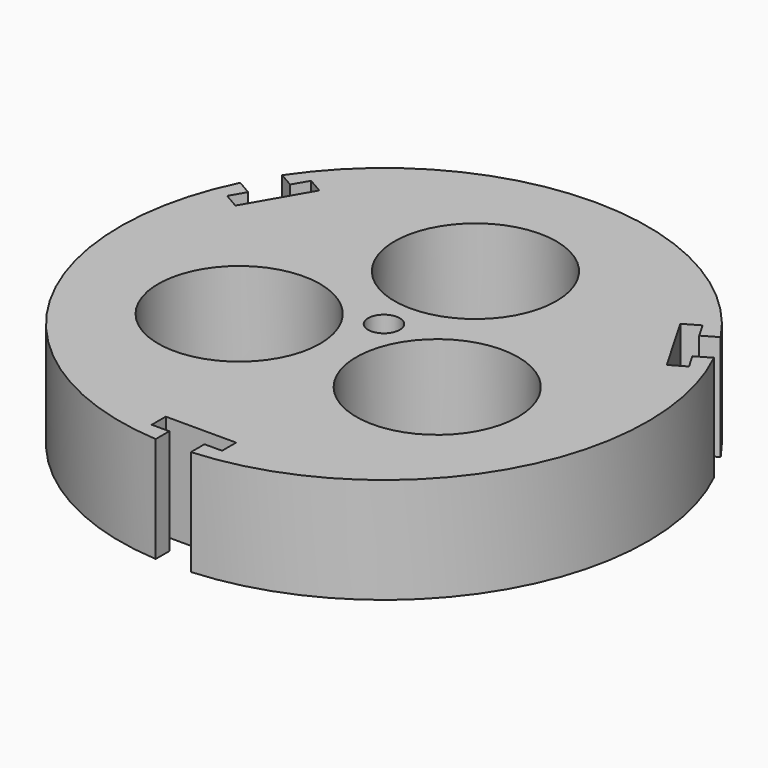
from build123d import *

# Parameters (mm, degrees)
SKETCH_R              = 30
PAD_DEPTH             = 12
SKETCH001_R           = 9.2
POCKET_DEPTH          = 183.395282
POLARPATTERN_COUNT    = 3
SKETCH002_R           = 1.8
POCKET001_DEPTH       = 12.001
SKETCH003_W           = 4
SKETCH003_H           = 4
SKETCH003_W_2         = 8
SKETCH003_H_2         = 2
POCKET002_DEPTH       = 183.395282
POLARPATTERN001_COUNT = 3


with BuildPart() as part:
    # Sketch → Pad (new body)
    with BuildSketch(Plane.XY):
        Circle(SKETCH_R)
    extrude(amount=PAD_DEPTH)

    # Sketch001 (on Face3 of Pad) → Pocket (cut, through all)
    with BuildSketch(Plane.XY.offset(12)):
        with Locations((0, 13)):
            Circle(SKETCH001_R)
    pocket = extrude(amount=-POCKET_DEPTH, mode=Mode.SUBTRACT)

    # PolarPattern: Pocket ×3 about axis
    polarpattern_axis = Axis((0, 0, 12), (0, 0, 1))
    for i in range(1, POLARPATTERN_COUNT):
        add(pocket.rotate(polarpattern_axis, i * 360 / POLARPATTERN_COUNT), mode=Mode.SUBTRACT)

    # Sketch002 (on Face3 of PolarPattern) → Pocket001 (cut, through all)
    with BuildSketch(Plane.XY.offset(12)):
        Circle(SKETCH002_R)
    extrude(amount=-POCKET001_DEPTH, mode=Mode.SUBTRACT)

    # Sketch003 (on Face3 of Pocket001) → Pocket002 (cut, through all)
    with BuildSketch(Plane.XY.offset(12)):
        with Locations((0, -30)):
            Rectangle(SKETCH003_W, SKETCH003_H)
        with Locations((0, -27)):
            Rectangle(SKETCH003_W_2, SKETCH003_H_2)
    pocket002 = extrude(amount=-POCKET002_DEPTH, mode=Mode.SUBTRACT)

    # PolarPattern001: Pocket002 ×3 about axis
    polarpattern001_axis = Axis((0, 0, 12), (0, 0, 1))
    for i in range(1, POLARPATTERN001_COUNT):
        add(pocket002.rotate(polarpattern001_axis, i * 360 / POLARPATTERN001_COUNT), mode=Mode.SUBTRACT)


solid = part.part
